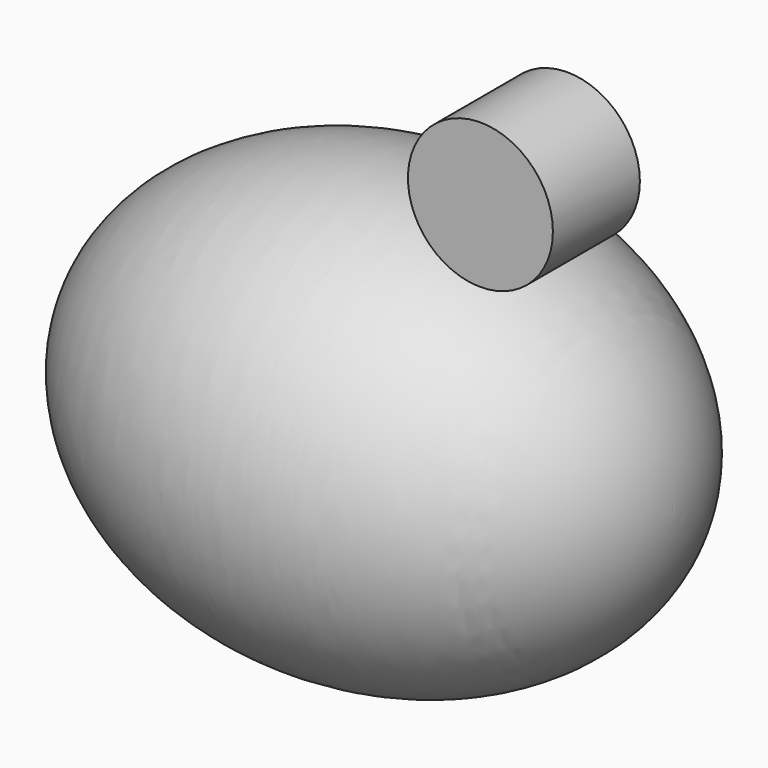
from build123d import *

# Parameters (mm, degrees)
F2_R     = 12.7
F3_DEPTH = 19.05


with BuildPart() as f1:
    # F0 (on Front) → F1 (revolve)
    with BuildSketch(Plane.XZ):
        with BuildLine():
            Line((-50.8, 0), (50.8, 0))
            add(Edge.make_bspline(
                [(50.8, 0), (50.8, 38.1), (0, 38.1), (-50.8, 38.1), (-50.8, 0)],
                knots=[0, 0, 0, 1.5707963268, 1.5707963268, 3.1415926536, 3.1415926536, 3.1415926536], degree=2, weights=[1, 0.7071067812, 1, 0.7071067812, 1]))
        make_face()
    revolve(axis=Axis((0, 0, 0), (1, 0, 0)))


with BuildPart() as f3:
    # F2 (on Front) → F3 (new body)
    with BuildSketch(Plane.XZ):
        with Locations((32.1602299809, 50.2964220941)):
            Circle(F2_R)
    extrude(amount=F3_DEPTH)


with BuildPart() as f4_1:
    # F4: copy of F3
    add(f3.part.moved(Location((48.514, 0, 0))))


solid = Compound([f1.part, f3.part])
